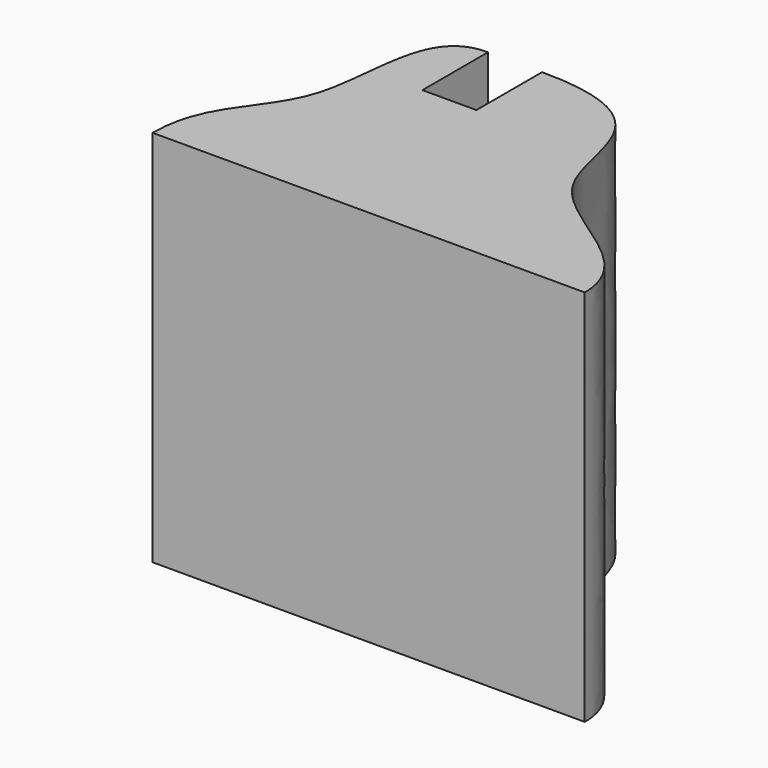
from build123d import *

# Parameters (mm, degrees)
F1_DEPTH = 70


with BuildPart() as f1:
    # F0 (on Top) → F1 (new body)
    with BuildSketch(Plane.XY):
        with BuildLine():
            Line((-32.1052614199, -25), (0, -25))
            Line((0, -25), (47.8947385801, -25))
            add(Edge.make_bspline(
                [(0, 25), (25.659063831, 25), (14.1547425884, -5.6128009824), (47.8947385801, -12.5), (47.8947385801, -25)],
                knots=[0, 0, 0, 0, 0.5085421527, 1, 1, 1, 1], degree=3))
            Line((0, 25), (0, 9.7970971838))
            Line((0, 9.7970971838), (-10, 9.7970971838))
            Line((-10, 9.7970971838), (-10, 25))
            add(Edge.make_bspline(
                [(-10, 25), (-21.1803913116, 25), (-15.7076229836, -6.2145753219), (-32.1052614199, -12.5), (-32.1052614199, -25)],
                knots=[0, 0, 0, 0, 0.5004724774, 1, 1, 1, 1], degree=3))
        make_face()
    extrude(amount=F1_DEPTH)


solid = f1.part
